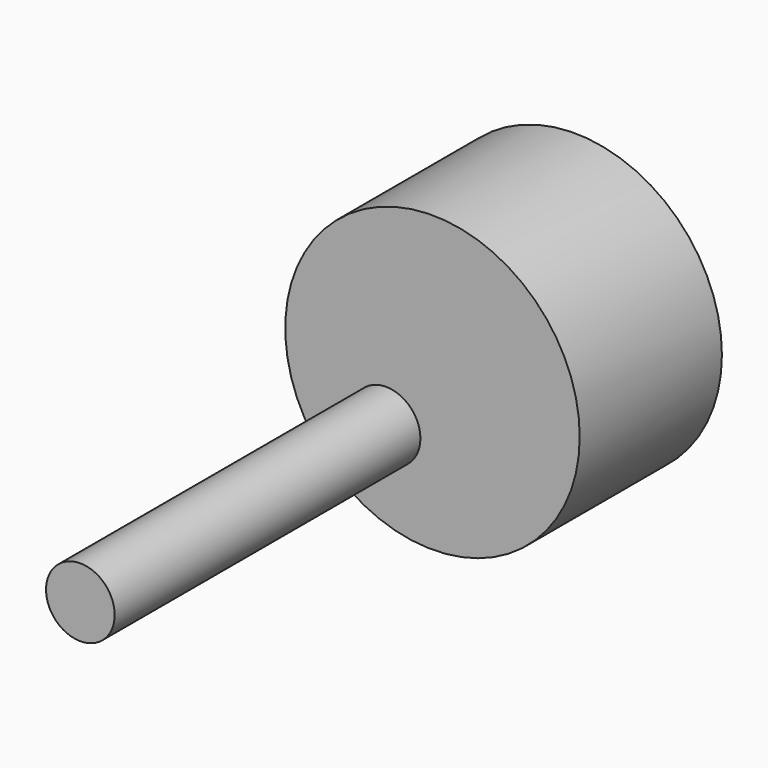
from build123d import *

# Parameters (mm, degrees)
F0_R     = 17.312852
F1_DEPTH = 192.786
F2_R     = 74.271861
F3_DEPTH = 89.662


with BuildPart() as f1:
    # F0 (on Front) → F1 (new body)
    with BuildSketch(Plane.XZ):
        with Locations((-35.814952, 37.411161)):
            Circle(F0_R)
    extrude(amount=F1_DEPTH)

    # F2 (on Front) → F3 (join)
    with BuildSketch(Plane.XZ):
        with Locations((-12.406922, 64.281538)):
            Circle(F2_R)
    extrude(amount=-F3_DEPTH)


solid = f1.part
